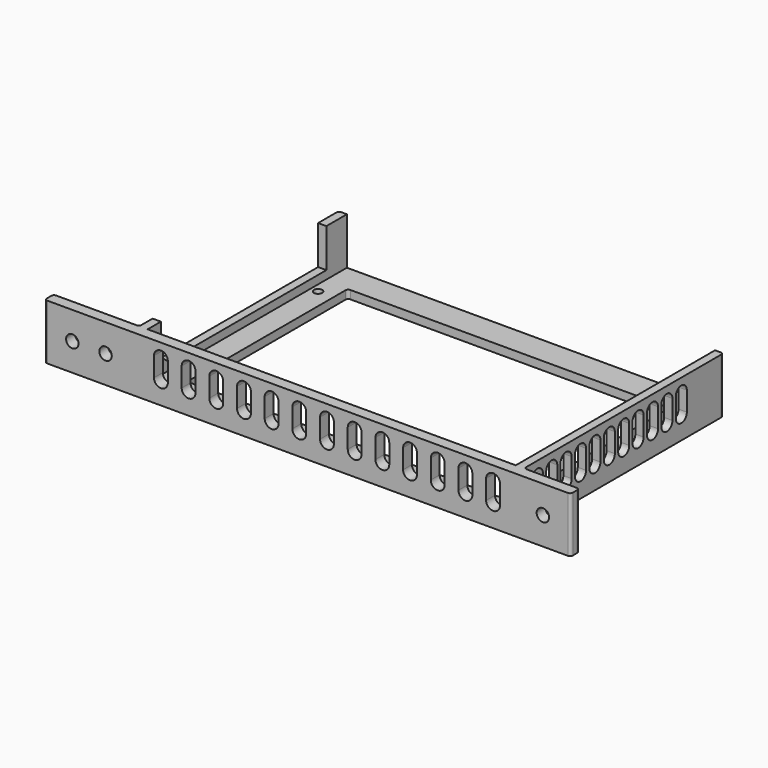
from build123d import *

# Parameters (mm, degrees)
F0_R      = 1.5
F1_DEPTH  = 3
F2_DEPTH  = 20
F4_DEPTH  = 10
F6_DEPTH  = 15
F7_R      = 2.25
F8_DEPTH  = 25
F10_DEPTH = 25


with BuildPart() as f1:
    # F0 (on Top) → F1 (new body)
    with BuildSketch(Plane.XY):
        with BuildLine():
            Line((74.081857, 42.382918), (-58.918143, 42.382918))
            Line((-58.918143, 42.382918), (-58.918143, -47.417082))
            ThreePointArc((-58.918143, -47.417082), (-58.859564, -47.558504), (-58.718143, -47.617082))
            Line((-58.718143, -47.617082), (74.081857, -47.617082))
            Line((74.081857, -47.617082), (74.081857, 42.382918))
        make_face()
        with Locations((-56.243143, -44.992082)):
            Circle(F0_R, mode=Mode.SUBTRACT)
        with Locations((71.406857, -44.992082)):
            Circle(F0_R, mode=Mode.SUBTRACT)
        with Locations((-56.243143, 26.007918)):
            Circle(F0_R, mode=Mode.SUBTRACT)
        with BuildLine():
            ThreePointArc((-50.618143, 31.382918), (-50.325249, 32.090025), (-49.618143, 32.382918))
            Line((-49.618143, 32.382918), (64.781857, 32.382918))
            ThreePointArc((64.781857, 32.382918), (65.488964, 32.090025), (65.781857, 31.382918))
            Line((65.781857, 31.382918), (65.781857, -39.117082))
            ThreePointArc((65.781857, -39.117082), (65.488964, -39.824189), (64.781857, -40.117082))
            Line((64.781857, -40.117082), (-49.618143, -40.117082))
            ThreePointArc((-49.618143, -40.117082), (-50.325249, -39.824189), (-50.618143, -39.117082))
            Line((-50.618143, -39.117082), (-50.618143, 31.382918))
        make_face(mode=Mode.SUBTRACT)
        with Locations((71.406857, 26.007918)):
            Circle(F0_R, mode=Mode.SUBTRACT)
    extrude(amount=F1_DEPTH)

    # F0 (on Top) → F2 (join)
    with BuildSketch(Plane.XY):
        with BuildLine():
            Line((-58.918143, -47.417082), (-58.918143, 42.382918))
            Line((-58.918143, 42.382918), (-60.918143, 42.382918))
            ThreePointArc((-60.918143, 42.382918), (-61.625249, 42.090025), (-61.918143, 41.382918))
            Line((-61.918143, 41.382918), (-61.918143, -46.617082))
            ThreePointArc((-61.918143, -46.617082), (-62.211036, -47.324189), (-62.918143, -47.617082))
            Line((-62.918143, -47.617082), (-91.918143, -47.617082))
            ThreePointArc((-91.918143, -47.617082), (-92.625249, -47.909975), (-92.918143, -48.617082))
            Line((-92.918143, -48.617082), (-92.918143, -50.617082))
            ThreePointArc((-92.918143, -50.617082), (-92.625249, -51.324189), (-91.918143, -51.617082))
            Line((-91.918143, -51.617082), (74.081857, -51.617082))
            Line((74.081857, -51.617082), (74.081857, -47.617082))
            Line((74.081857, -47.617082), (-58.718143, -47.617082))
            Line((-58.718143, -47.617082), (-58.918143, -47.617082))
            Line((-58.918143, -47.617082), (-58.918143, -47.417082))
        make_face()
        with BuildLine():
            Line((76.081857, 42.382918), (74.081857, 42.382918))
            Line((74.081857, 42.382918), (74.081857, -47.617082))
            Line((74.081857, -47.617082), (74.081857, -51.617082))
            Line((74.081857, -51.617082), (77.081857, -51.617082))
            Line((77.081857, -51.617082), (96.081857, -51.617082))
            ThreePointArc((96.081857, -51.617082), (96.788964, -51.324189), (97.081857, -50.617082))
            Line((97.081857, -50.617082), (97.081857, -48.617082))
            ThreePointArc((97.081857, -48.617082), (96.788964, -47.909975), (96.081857, -47.617082))
            Line((96.081857, -47.617082), (78.081857, -47.617082))
            ThreePointArc((78.081857, -47.617082), (77.374751, -47.324189), (77.081857, -46.617082))
            Line((77.081857, -46.617082), (77.081857, 41.382918))
            ThreePointArc((77.081857, 41.382918), (76.788964, 42.090025), (76.081857, 42.382918))
        make_face()
        with BuildLine():
            Line((-58.918143, -47.417082), (-58.918143, 42.382918))
            Line((-58.918143, 42.382918), (-60.918143, 42.382918))
            ThreePointArc((-60.918143, 42.382918), (-61.625249, 42.090025), (-61.918143, 41.382918))
            Line((-61.918143, 41.382918), (-61.918143, -46.617082))
            ThreePointArc((-61.918143, -46.617082), (-62.211036, -47.324189), (-62.918143, -47.617082))
            Line((-62.918143, -47.617082), (-91.918143, -47.617082))
            ThreePointArc((-91.918143, -47.617082), (-92.625249, -47.909975), (-92.918143, -48.617082))
            Line((-92.918143, -48.617082), (-92.918143, -50.617082))
            ThreePointArc((-92.918143, -50.617082), (-92.625249, -51.324189), (-91.918143, -51.617082))
            Line((-91.918143, -51.617082), (74.081857, -51.617082))
            Line((74.081857, -51.617082), (74.081857, -47.617082))
            Line((74.081857, -47.617082), (-58.718143, -47.617082))
            Line((-58.718143, -47.617082), (-58.918143, -47.617082))
            Line((-58.918143, -47.617082), (-58.918143, -47.417082))
        make_face()
        with BuildLine():
            Line((76.081857, 42.382918), (74.081857, 42.382918))
            Line((74.081857, 42.382918), (74.081857, -47.617082))
            Line((74.081857, -47.617082), (74.081857, -51.617082))
            Line((74.081857, -51.617082), (77.081857, -51.617082))
            Line((77.081857, -51.617082), (96.081857, -51.617082))
            ThreePointArc((96.081857, -51.617082), (96.788964, -51.324189), (97.081857, -50.617082))
            Line((97.081857, -50.617082), (97.081857, -48.617082))
            ThreePointArc((97.081857, -48.617082), (96.788964, -47.909975), (96.081857, -47.617082))
            Line((96.081857, -47.617082), (78.081857, -47.617082))
            ThreePointArc((78.081857, -47.617082), (77.374751, -47.324189), (77.081857, -46.617082))
            Line((77.081857, -46.617082), (77.081857, 41.382918))
            ThreePointArc((77.081857, 41.382918), (76.788964, 42.090025), (76.081857, 42.382918))
        make_face()
    extrude(amount=F2_DEPTH)

    # F3 (on face) → F4 (cut)
    with BuildSketch(Plane.YZ.offset(77.081857)):
        with BuildLine():
            Line((-39.117082, 8), (-39.117082, 15))
            ThreePointArc((-39.117082, 15), (-41.617082, 17.5), (-44.117082, 15))
            Line((-44.117082, 15), (-44.117082, 8))
            ThreePointArc((-44.117082, 8), (-41.617082, 5.5), (-39.117082, 8))
        make_face()
        with BuildLine():
            Line((-32.617082, 8), (-32.617082, 15))
            ThreePointArc((-32.617082, 15), (-35.117082, 17.5), (-37.617082, 15))
            Line((-37.617082, 15), (-37.617082, 8))
            ThreePointArc((-37.617082, 8), (-35.117082, 5.5), (-32.617082, 8))
        make_face()
        with BuildLine():
            Line((-26.117082, 8), (-26.117082, 15))
            ThreePointArc((-26.117082, 15), (-28.617082, 17.5), (-31.117082, 15))
            Line((-31.117082, 15), (-31.117082, 8))
            ThreePointArc((-31.117082, 8), (-28.617082, 5.5), (-26.117082, 8))
        make_face()
        with BuildLine():
            Line((-19.617082, 8), (-19.617082, 15))
            ThreePointArc((-19.617082, 15), (-22.117082, 17.5), (-24.617082, 15))
            Line((-24.617082, 15), (-24.617082, 8))
            ThreePointArc((-24.617082, 8), (-22.117082, 5.5), (-19.617082, 8))
        make_face()
        with BuildLine():
            Line((-13.117082, 8), (-13.117082, 15))
            ThreePointArc((-13.117082, 15), (-15.617082, 17.5), (-18.117082, 15))
            Line((-18.117082, 15), (-18.117082, 8))
            ThreePointArc((-18.117082, 8), (-15.617082, 5.5), (-13.117082, 8))
        make_face()
        with BuildLine():
            Line((-6.617082, 8), (-6.617082, 15))
            ThreePointArc((-6.617082, 15), (-9.117082, 17.5), (-11.617082, 15))
            Line((-11.617082, 15), (-11.617082, 8))
            ThreePointArc((-11.617082, 8), (-9.117082, 5.5), (-6.617082, 8))
        make_face()
        with BuildLine():
            Line((-0.117082, 8), (-0.117082, 15))
            ThreePointArc((-0.117082, 15), (-2.617082, 17.5), (-5.117082, 15))
            Line((-5.117082, 15), (-5.117082, 8))
            ThreePointArc((-5.117082, 8), (-2.617082, 5.5), (-0.117082, 8))
        make_face()
        with BuildLine():
            Line((6.382918, 8), (6.382918, 15))
            ThreePointArc((6.382918, 15), (3.882918, 17.5), (1.382918, 15))
            Line((1.382918, 15), (1.382918, 8))
            ThreePointArc((1.382918, 8), (3.882918, 5.5), (6.382918, 8))
        make_face()
        with BuildLine():
            Line((12.882918, 8), (12.882918, 15))
            ThreePointArc((12.882918, 15), (10.382918, 17.5), (7.882918, 15))
            Line((7.882918, 15), (7.882918, 8))
            ThreePointArc((7.882918, 8), (10.382918, 5.5), (12.882918, 8))
        make_face()
        with BuildLine():
            Line((19.382918, 8), (19.382918, 15))
            ThreePointArc((19.382918, 15), (16.882918, 17.5), (14.382918, 15))
            Line((14.382918, 15), (14.382918, 8))
            ThreePointArc((14.382918, 8), (16.882918, 5.5), (19.382918, 8))
        make_face()
        with BuildLine():
            Line((25.882918, 8), (25.882918, 15))
            ThreePointArc((25.882918, 15), (23.382918, 17.5), (20.882918, 15))
            Line((20.882918, 15), (20.882918, 8))
            ThreePointArc((20.882918, 8), (23.382918, 5.5), (25.882918, 8))
        make_face()
    extrude(amount=-F4_DEPTH, mode=Mode.SUBTRACT)

    # F5 (on face) → F6 (cut)
    with BuildSketch(Plane(origin=(-61.918143, 0, 0), x_dir=(0, -1, 0), z_dir=(-1, 0, 0))):
        with BuildLine():
            Line((41.617082, 11), (41.617082, 20))
            Line((41.617082, 20), (-33.120077, 20))
            Line((-33.120077, 20), (-33.120077, 6))
            Line((-33.120077, 6), (36.617082, 6))
            ThreePointArc((36.617082, 6), (40.152616, 7.464466), (41.617082, 11))
        make_face()
        with BuildLine():
            Line((41.617082, 11), (41.617082, 20))
            Line((41.617082, 20), (-33.120077, 20))
            Line((-33.120077, 20), (-33.120077, 6))
            Line((-33.120077, 6), (36.617082, 6))
            ThreePointArc((36.617082, 6), (40.152616, 7.464466), (41.617082, 11))
        make_face()
    extrude(amount=-F6_DEPTH, mode=Mode.SUBTRACT)

    # F7 (on face) → F8 (cut)
    with BuildSketch(Plane(origin=(0, -47.617082, 0), x_dir=(-1, 0, 0), z_dir=(0, 1, 0))):
        with Locations((-87.081857, 10)):
            Circle(F7_R)
        with Locations((70.918143, 10)):
            Circle(F7_R)
        with Locations((82.918143, 10)):
            Circle(F7_R)
    extrude(amount=-F8_DEPTH, mode=Mode.SUBTRACT)

    # F9 (on face) → F10 (cut)
    with BuildSketch(Plane(origin=(0, -47.617082, 0), x_dir=(-1, 0, 0), z_dir=(0, 1, 0))):
        with BuildLine():
            Line((-66.581857, 8), (-66.581857, 15))
            ThreePointArc((-66.581857, 15), (-69.081857, 17.5), (-71.581857, 15))
            Line((-71.581857, 15), (-71.581857, 8))
            ThreePointArc((-71.581857, 8), (-69.081857, 5.5), (-66.581857, 8))
        make_face()
        with BuildLine():
            Line((-61.581857, 15), (-61.581857, 8))
            ThreePointArc((-61.581857, 8), (-59.081857, 5.5), (-56.581857, 8))
            Line((-56.581857, 8), (-56.581857, 15))
            ThreePointArc((-56.581857, 15), (-59.081857, 17.5), (-61.581857, 15))
        make_face()
        with BuildLine():
            Line((-51.581857, 15), (-51.581857, 8))
            ThreePointArc((-51.581857, 8), (-49.081857, 5.5), (-46.581857, 8))
            Line((-46.581857, 8), (-46.581857, 15))
            ThreePointArc((-46.581857, 15), (-49.081857, 17.5), (-51.581857, 15))
        make_face()
        with BuildLine():
            Line((-41.581857, 15), (-41.581857, 8))
            ThreePointArc((-41.581857, 8), (-39.081857, 5.5), (-36.581857, 8))
            Line((-36.581857, 8), (-36.581857, 15))
            ThreePointArc((-36.581857, 15), (-39.081857, 17.5), (-41.581857, 15))
        make_face()
        with BuildLine():
            Line((-31.581857, 15), (-31.581857, 8))
            ThreePointArc((-31.581857, 8), (-29.081857, 5.5), (-26.581857, 8))
            Line((-26.581857, 8), (-26.581857, 15))
            ThreePointArc((-26.581857, 15), (-29.081857, 17.5), (-31.581857, 15))
        make_face()
        with BuildLine():
            Line((-21.581857, 15), (-21.581857, 8))
            ThreePointArc((-21.581857, 8), (-19.081857, 5.5), (-16.581857, 8))
            Line((-16.581857, 8), (-16.581857, 15))
            ThreePointArc((-16.581857, 15), (-19.081857, 17.5), (-21.581857, 15))
        make_face()
        with BuildLine():
            Line((-11.581857, 15), (-11.581857, 8))
            ThreePointArc((-11.581857, 8), (-9.081857, 5.5), (-6.581857, 8))
            Line((-6.581857, 8), (-6.581857, 15))
            ThreePointArc((-6.581857, 15), (-9.081857, 17.5), (-11.581857, 15))
        make_face()
        with BuildLine():
            Line((-1.581857, 15), (-1.581857, 8))
            ThreePointArc((-1.581857, 8), (0.918143, 5.5), (3.418143, 8))
            Line((3.418143, 8), (3.418143, 15))
            ThreePointArc((3.418143, 15), (0.918143, 17.5), (-1.581857, 15))
        make_face()
        with BuildLine():
            Line((8.418143, 15), (8.418143, 8))
            ThreePointArc((8.418143, 8), (10.918143, 5.5), (13.418143, 8))
            Line((13.418143, 8), (13.418143, 15))
            ThreePointArc((13.418143, 15), (10.918143, 17.5), (8.418143, 15))
        make_face()
        with BuildLine():
            Line((18.418143, 15), (18.418143, 8))
            ThreePointArc((18.418143, 8), (20.918143, 5.5), (23.418143, 8))
            Line((23.418143, 8), (23.418143, 15))
            ThreePointArc((23.418143, 15), (20.918143, 17.5), (18.418143, 15))
        make_face()
        with BuildLine():
            Line((28.418143, 15), (28.418143, 8))
            ThreePointArc((28.418143, 8), (30.918143, 5.5), (33.418143, 8))
            Line((33.418143, 8), (33.418143, 15))
            ThreePointArc((33.418143, 15), (30.918143, 17.5), (28.418143, 15))
        make_face()
        with BuildLine():
            Line((38.418143, 15), (38.418143, 8))
            ThreePointArc((38.418143, 8), (40.918143, 5.5), (43.418143, 8))
            Line((43.418143, 8), (43.418143, 15))
            ThreePointArc((43.418143, 15), (40.918143, 17.5), (38.418143, 15))
        make_face()
        with BuildLine():
            Line((48.418143, 15), (48.418143, 8))
            ThreePointArc((48.418143, 8), (50.918143, 5.5), (53.418143, 8))
            Line((53.418143, 8), (53.418143, 15))
            ThreePointArc((53.418143, 15), (50.918143, 17.5), (48.418143, 15))
        make_face()
    extrude(amount=-F10_DEPTH, mode=Mode.SUBTRACT)


solid = f1.part
